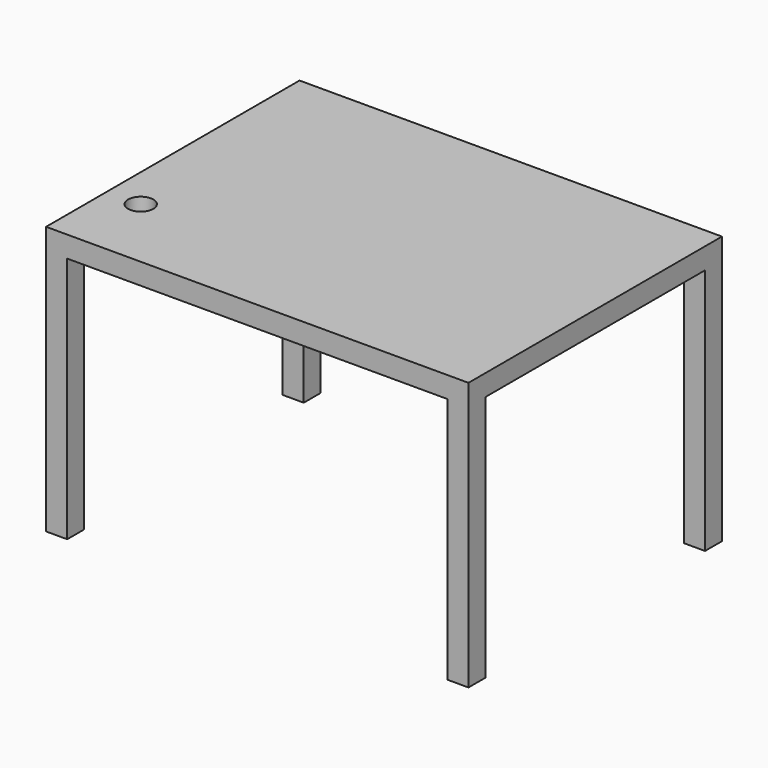
from build123d import *

# Parameters (mm, degrees)
F2_W     = 508
F2_H     = 381
F2_R     = 15.24
F3_DEPTH = 25.4
F4_W     = 25.4
F4_H     = 25.4
F5_DEPTH = 297.18
F7_DEPTH = 2.54


with BuildPart() as f3:
    # F2 (on face) → F3 (new body)
    with BuildSketch(Plane.XY):
        with Locations((-12.433536, 36.703804)):
            Rectangle(F2_W, F2_H)
        with Locations((-225.793536, -62.356196)):
            Circle(F2_R, mode=Mode.SUBTRACT)
    extrude(amount=F3_DEPTH)

    # F4 (on face) → F5 (join)
    with BuildSketch(Plane.XY):
        with Locations((-253.733536, -141.096196)):
            Rectangle(F4_W, F4_H)
        with Locations((228.866464, 214.503804)):
            Rectangle(F4_W, F4_H)
        with Locations((228.866464, -141.096196)):
            Rectangle(F4_W, F4_H)
        with Locations((-253.733536, 214.503804)):
            Rectangle(F4_W, F4_H)
    extrude(amount=-F5_DEPTH)

    # F6 (on face) → F7 (join)
    with BuildSketch(Plane.XY):
        Polygon((-78.894847, -45.385379), (-82.638033, -41.965879), (-128.514952, -65.7849), (-126.283888, -70.082069), align=None)
    extrude(amount=-F7_DEPTH)


solid = f3.part
